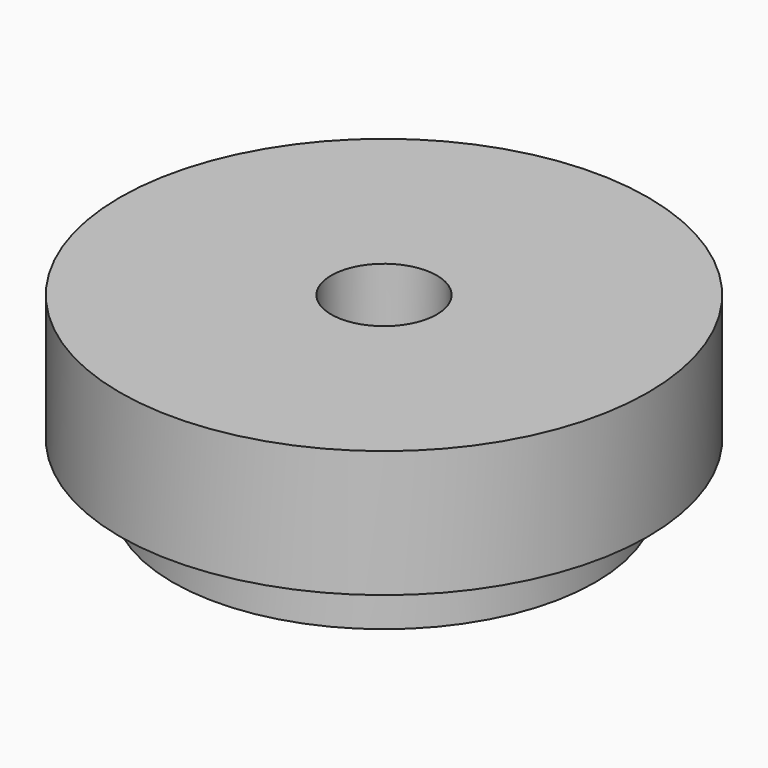
from build123d import *


with BuildPart() as f1:
    # F0 (on Front) → F1 (revolve)
    with BuildSketch(Plane.XZ):
        with BuildLine():
            Line((3.175, 4.936174), (9.525, 1.27))
            Line((9.525, 1.27), (9.525, -0.002091))
            ThreePointArc((9.525, -0.002091), (11.113375, -0.131583), (12.7, -0.280995))
            Line((12.7, -0.280995), (12.7, 3.175))
            Line((12.7, 3.175), (15.875, 3.175))
            Line((15.875, 3.175), (15.875, 10.795))
            Line((15.875, 10.795), (3.175, 10.795))
            Line((3.175, 10.795), (3.175, 4.936174))
        make_face()
    revolve(axis=Axis((0, 0, 10.277822), (0, 0, 1)))


solid = f1.part
